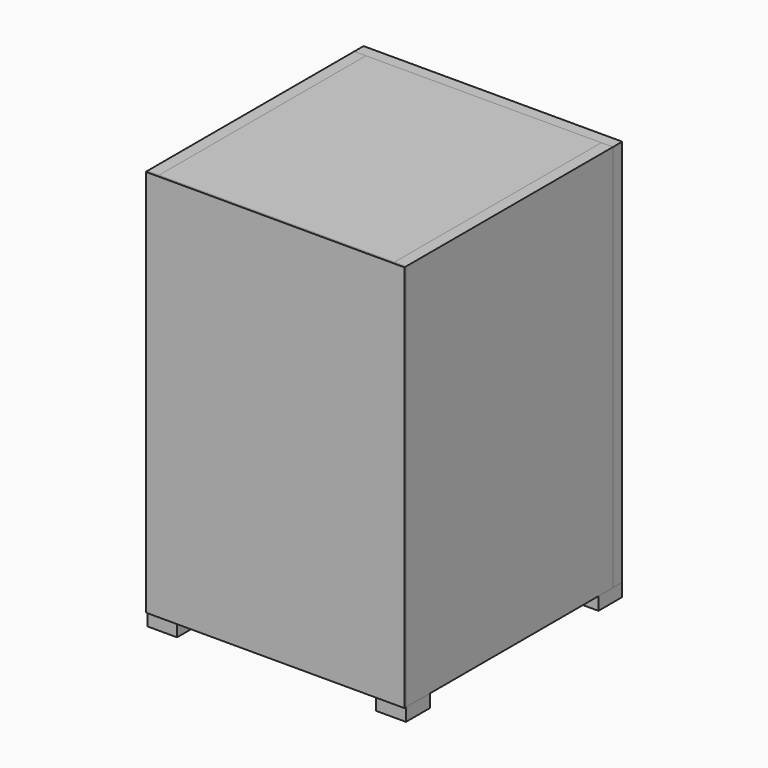
from build123d import *

# Parameters (mm, degrees)
F0_W      = 200
F0_H      = 300
F1_DEPTH  = 1.5
F2_W      = 9
F2_H      = 300
F3_DEPTH  = 200
F5_DEPTH  = 12
F7_DEPTH  = 182
F8_W      = 44.21284
F8_H      = 17.226002
F9_DEPTH  = 5
F10_W     = 200
F10_H     = 9
F11_DEPTH = 182
F12_W     = 200
F12_H     = 9
F13_DEPTH = 182
F14_W     = 200
F14_H     = 300
F15_DEPTH = 9
F16_W     = 200
F16_H     = 300
F17_DEPTH = 9
F18_R     = 40.444781
F19_DEPTH = 9
F20_W     = 23
F20_H     = 23
F21_DEPTH = 10
F22_W     = 23
F22_H     = 23
F23_DEPTH = 10
F24_W     = 23
F24_H     = 23
F25_DEPTH = 10
F26_W     = 23
F26_H     = 23
F27_DEPTH = 10


with BuildPart() as f1:
    # F0 (on Front) → F1 (new body)
    with BuildSketch(Plane.XZ):
        with Locations((100, 150)):
            Rectangle(F0_W, F0_H)
    extrude(amount=F1_DEPTH)


with BuildPart() as f3:
    # F2 (on face) → F3 (new body)
    with BuildSketch(Plane(origin=(0, 0, 0), x_dir=(-1, 0, 0), z_dir=(0, 1, 0))):
        with Locations((-4.5, 150)):
            Rectangle(F2_W, F2_H)
    extrude(amount=F3_DEPTH)


with BuildPart() as f5:
    # F4 (on face) → F5 (new body)
    with BuildSketch(Plane.YZ.offset(9)):
        Polygon((24.006182, 108.094089), (0, 138.703629), (0, 88.151507), align=None)
    extrude(amount=F5_DEPTH)


with BuildPart() as f7:
    # F6 (on face) → F7 (new body)
    with BuildSketch(Plane.YZ.offset(9)):
        Polygon((0, 138.703629), (24.006182, 108.094089), (30.362231, 113.078955), (6.356049, 143.688496), align=None)
    extrude(amount=F7_DEPTH)


with BuildPart() as f9:
    # F8 (on face) → F9 (new body)
    with BuildSketch(Plane(origin=(0, 73.709477, 57.808223), x_dir=(-1, 0, 0), z_dir=(0, 0.78687, 0.617119))):
        with Locations((-93.700122, 78.854282)):
            Rectangle(F8_W, F8_H)
    extrude(amount=F9_DEPTH)


with BuildPart() as f11:
    # F10 (on face) → F11 (new body)
    with BuildSketch(Plane.YZ.offset(9)):
        with Locations((100, 295.5)):
            Rectangle(F10_W, F10_H)
    extrude(amount=F11_DEPTH)


with BuildPart() as f13:
    # F12 (on face) → F13 (new body)
    with BuildSketch(Plane.YZ.offset(9)):
        with Locations((100, 4.5)):
            Rectangle(F12_W, F12_H)
    extrude(amount=F13_DEPTH)


with BuildPart() as f15:
    # F14 (on face) → F15 (new body)
    with BuildSketch(Plane.YZ.offset(191)):
        with Locations((100, 150)):
            Rectangle(F14_W, F14_H)
    extrude(amount=F15_DEPTH)


with BuildPart() as f17:
    # F16 (on face) → F17 (new body)
    with BuildSketch(Plane(origin=(0, 200, 0), x_dir=(-1, 0, 0), z_dir=(0, 1, 0))):
        with Locations((-100, 150)):
            Rectangle(F16_W, F16_H)
    extrude(amount=F17_DEPTH)

    # F18 (on face) → F19 (cut)
    with BuildSketch(Plane(origin=(0, 209, 0), x_dir=(-1, 0, 0), z_dir=(0, 1, 0))):
        with Locations((-126.965553, 52.904155)):
            Circle(F18_R)
    extrude(amount=-F19_DEPTH, mode=Mode.SUBTRACT)


with BuildPart() as f21:
    # F20 (on face) → F21 (new body)
    with BuildSketch(Plane(origin=(0, 0, 0), x_dir=(1, 0, 0), z_dir=(0, 0, -1))):
        with Locations((11.5, -11.5)):
            Rectangle(F20_W, F20_H)
    extrude(amount=F21_DEPTH)


with BuildPart() as f23:
    # F22 (on face) → F23 (new body)
    with BuildSketch(Plane(origin=(0, 0, 0), x_dir=(1, 0, 0), z_dir=(0, 0, -1))):
        with Locations((188.5, -11.5)):
            Rectangle(F22_W, F22_H)
    extrude(amount=F23_DEPTH)


with BuildPart() as f25:
    # F24 (on face) → F25 (new body)
    with BuildSketch(Plane(origin=(0, 0, 0), x_dir=(1, 0, 0), z_dir=(0, 0, -1))):
        with Locations((11.5, -197.575272)):
            Rectangle(F24_W, F24_H)
    extrude(amount=F25_DEPTH)


with BuildPart() as f27:
    # F26 (on face) → F27 (new body)
    with BuildSketch(Plane(origin=(0, 0, 0), x_dir=(1, 0, 0), z_dir=(0, 0, -1))):
        with Locations((188.5, -197.5)):
            Rectangle(F26_W, F26_H)
    extrude(amount=F27_DEPTH)


solid = Compound([f1.part, f3.part, f5.part, f7.part, f9.part, f11.part, f13.part, f15.part, f17.part, f21.part, f23.part, f25.part, f27.part])
